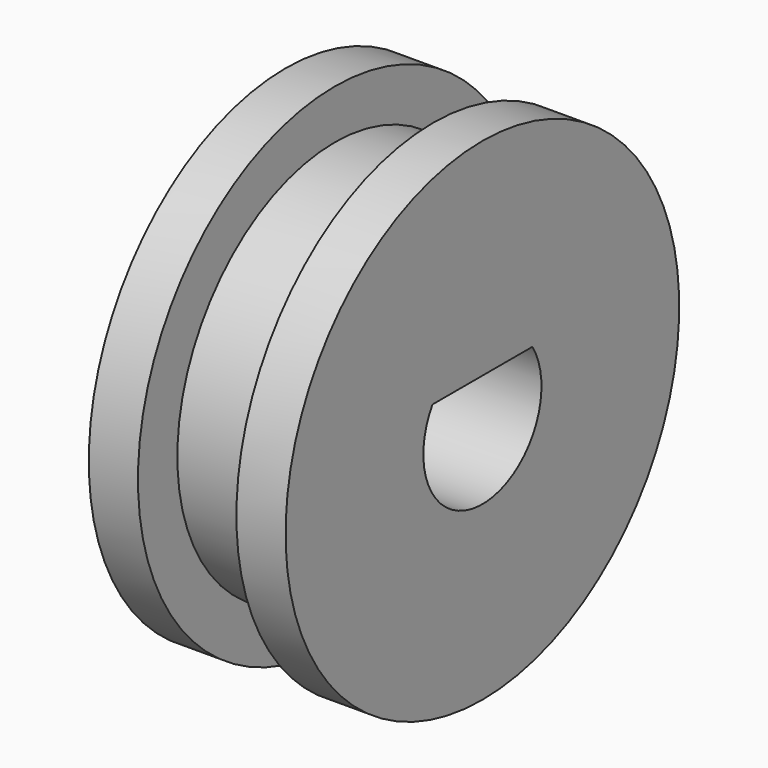
from build123d import *

# Parameters (mm, degrees)
F3_DEPTH      = 6.35
F3_DEPTH_BACK = 6.35


with BuildPart() as f1:
    # F0 (on Front) → F1 (revolve)
    with BuildSketch(Plane.XZ):
        Polygon((-6.35, 15.875), (-6.35, 4.7625), (6.35, 4.7625), (6.35, 15.875), (3.175, 15.875), (3.175, 12.7), (-3.175, 12.7), (-3.175, 15.875), align=None)
    revolve(axis=Axis((0, 0, 0), (1, 0, 0)))

    # F2 (on Right) → F3 (join, two sides)
    with BuildSketch(Plane.YZ) as f3_sk:
        with BuildLine():
            Line((-4.0286233691, 2.54), (4.0286233691, 2.54))
            ThreePointArc((4.0286233691, 2.54), (0, 4.7625), (-4.0286233691, 2.54))
        make_face()
    extrude(amount=F3_DEPTH)
    extrude(f3_sk.sketch, amount=-F3_DEPTH_BACK)


solid = f1.part
